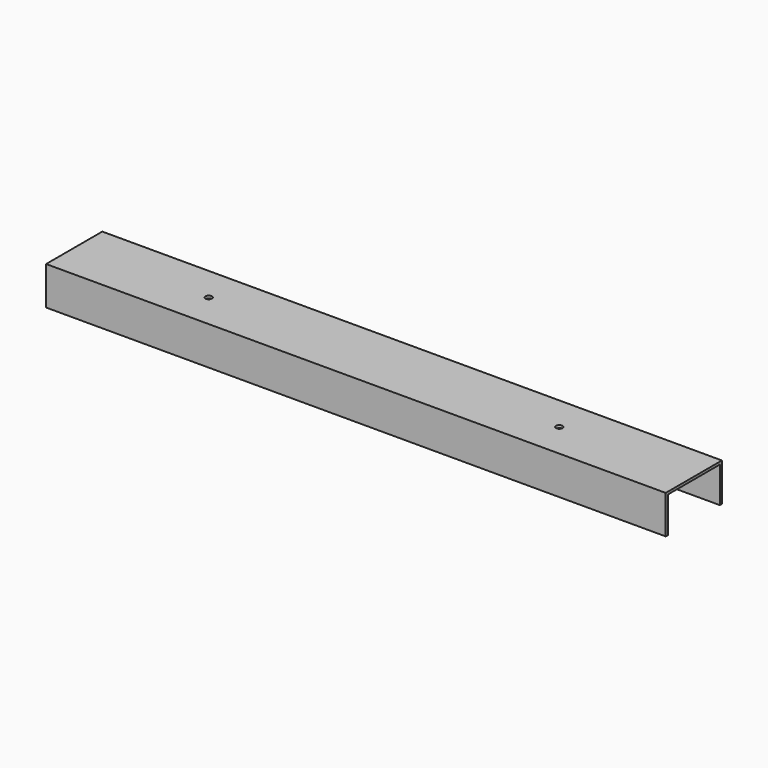
from build123d import *

# Parameters (mm, degrees)
F0_W     = 615.95
F0_H     = 69.85
F1_DEPTH = 19.05
F2_T     = -2.54
F3_R     = 3.175
F4_DEPTH = 38.101


with BuildPart() as f1:
    # F0 (on Top) → F1 (new body, symmetric)
    with BuildSketch(Plane.XY):
        Rectangle(F0_W, F0_H)
    extrude(amount=F1_DEPTH, both=True)

    # F2
    f2_openings = [f1.faces().sort_by_distance(p)[0] for p in [
        (0, 0, -19.05),
        (307.975, 0, 0),
        (-307.975, 0, 0),
    ]]
    offset(amount=F2_T, openings=f2_openings)

    # F3 (on face) → F4 (cut, through all)
    with BuildSketch(Plane.XY.offset(19.05)):
        with Locations((-174.244, 0)):
            Circle(F3_R)
        with Locations((174.244, 0)):
            Circle(F3_R)
    extrude(amount=-F4_DEPTH, mode=Mode.SUBTRACT)


solid = f1.part
